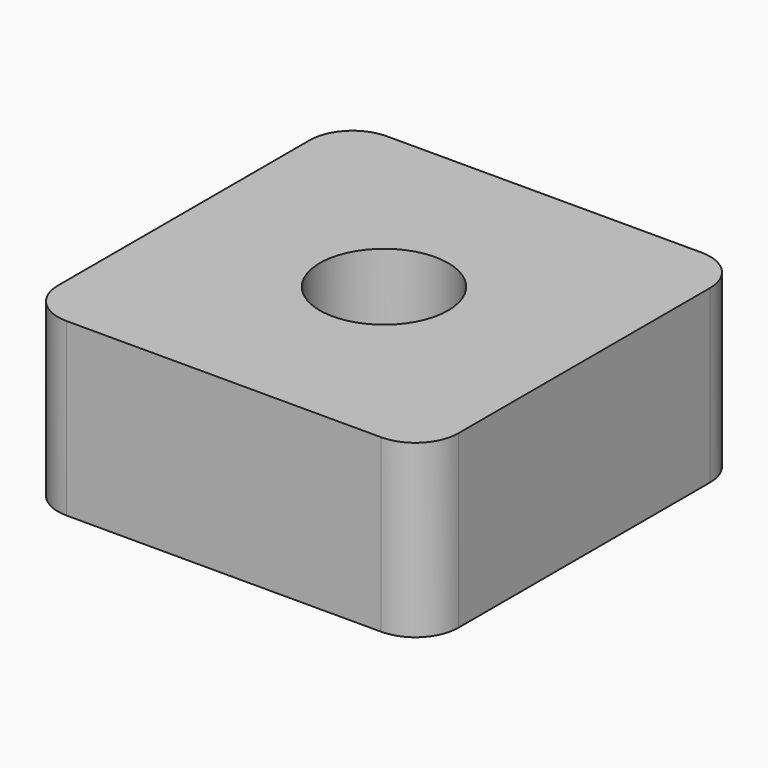
from build123d import *

# Parameters (mm, degrees)
SKETCH_R  = 3
PAD_DEPTH = 8


with BuildPart() as part:
    # Sketch → Pad (new body)
    with BuildSketch(Plane.XY):
        with BuildLine():
            Line((-7.35, 9.35), (7.35, 9.35))
            ThreePointArc((9.35, 7.35), (8.764214, 8.764214), (7.35, 9.35))
            Line((9.35, 7.35), (9.35, -7.35))
            ThreePointArc((7.35, -9.35), (8.764214, -8.764214), (9.35, -7.35))
            Line((7.35, -9.35), (-7.35, -9.35))
            ThreePointArc((-9.35, -7.35), (-8.764214, -8.764214), (-7.35, -9.35))
            Line((-9.35, -7.35), (-9.35, 7.35))
            ThreePointArc((-7.35, 9.35), (-8.764214, 8.764214), (-9.35, 7.35))
        make_face()
        Circle(SKETCH_R, mode=Mode.SUBTRACT)
    extrude(amount=PAD_DEPTH)


solid = part.part
